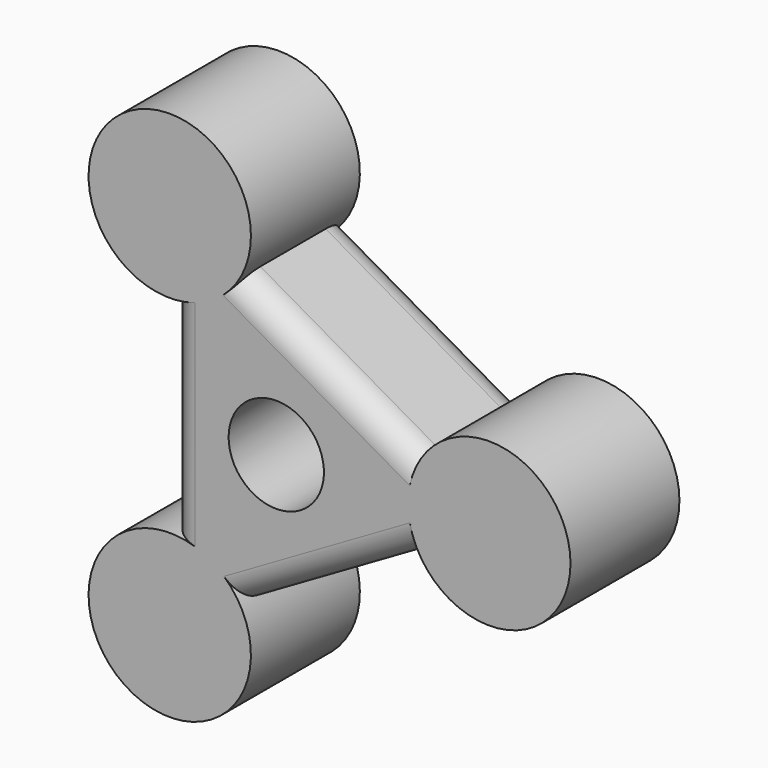
from build123d import *

# Parameters (mm, degrees)
F0_R     = 3.78575
F2_DEPTH = 6.35
F3_R     = 1.341607
F4_R     = 1.20213
F5_D     = 4.445


with BuildPart() as f2:
    # F0 (on Front) + F1 (on Front) → F2 (new body)
    with BuildSketch(Plane.XZ):
        with Locations((9.935658, 0)):
            Circle(F0_R)
        with Locations((-4.967829, 8.604533)):
            Circle(F0_R)
        with Locations((-4.967829, -8.604533)):
            Circle(F0_R)
    with BuildSketch(Plane.XZ):
        Polygon((9.958743, 0), (-4.995326, 8.571174), (-4.995326, -8.656174), align=None)
    extrude(amount=F2_DEPTH)

    # F3
    f3_edges = [f2.edges().sort_by_distance(p)[0] for p in [
        (2.476077, 0, 4.288815),
        (-4.995326, 0, 0),
        (2.494509, 0, -4.320677),
    ]]
    fillet(f3_edges, radius=F3_R)

    # F4
    f4_edges = [f2.edges().sort_by_distance(p)[0] for p in [
        (-4.995326, -6.35, 0),
        (2.476077, -6.35, 4.288815),
        (2.494509, -6.35, -4.320677),
    ]]
    fillet(f4_edges, radius=F4_R)

    # F5 (through all)
    with Locations(Plane(origin=(0, 0, 0), x_dir=(1, 0, 0), z_dir=(0, 1, 0))):
        with Locations((0, 0)):
            Hole(F5_D / 2)


solid = f2.part
